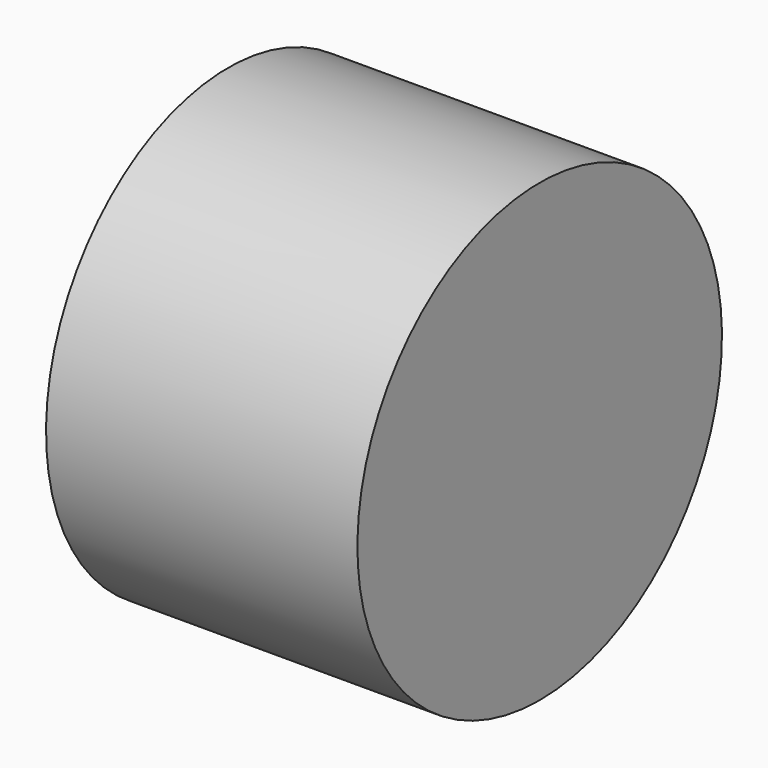
from build123d import *

# Parameters (mm, degrees)
CYLINDER057_R     = 1.25
CYLINDER057_DEPTH = 5
CYLINDER037_R     = 3
CYLINDER037_DEPTH = 4.1


with BuildPart() as b_w004:
    # Cylinder057 → Cylinder057 (new body)
    with BuildSketch(Plane(origin=(2, 26, 26), x_dir=(0, 0, 1), z_dir=(-1, 0, 0))):
        Circle(CYLINDER057_R)
    extrude(amount=CYLINDER057_DEPTH)


with BuildPart() as cut031:
    # Cylinder037 → Cylinder037 (new body)
    with BuildSketch(Plane(origin=(-1, 26, 26), x_dir=(0, 0, -1), z_dir=(1, 0, 0))):
        Circle(CYLINDER037_R)
    extrude(amount=CYLINDER037_DEPTH)

    # Cut031: cut B_W004
    add(b_w004.part, mode=Mode.SUBTRACT)


solid = cut031.part
